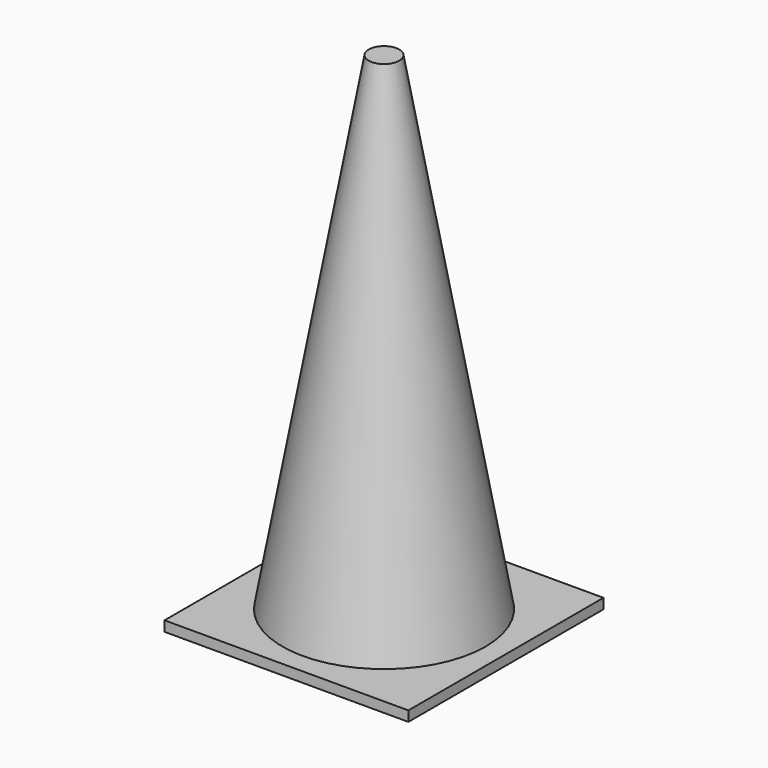
from build123d import *

# Parameters (mm, degrees)
F0_W     = 304.8
F0_H     = 304.8
F0_R     = 127
F1_DEPTH = 12.7
F3_R     = 19.05


with BuildPart() as f1:
    # F0 (on Top) → F1 (new body)
    with BuildSketch(Plane.XY):
        Rectangle(F0_W, F0_H)
        Circle(F0_R, mode=Mode.SUBTRACT)
    extrude(amount=-F1_DEPTH)


with BuildPart() as f4:
    # F0 (on Top) → F4 section 0
    with BuildSketch(Plane.XY):
        Circle(F0_R)
    # F3 (on offset) → F4 section 1
    with BuildSketch(Plane.XY.offset(609.6)):
        Circle(F3_R)
    loft()


solid = Compound([f1.part, f4.part])
